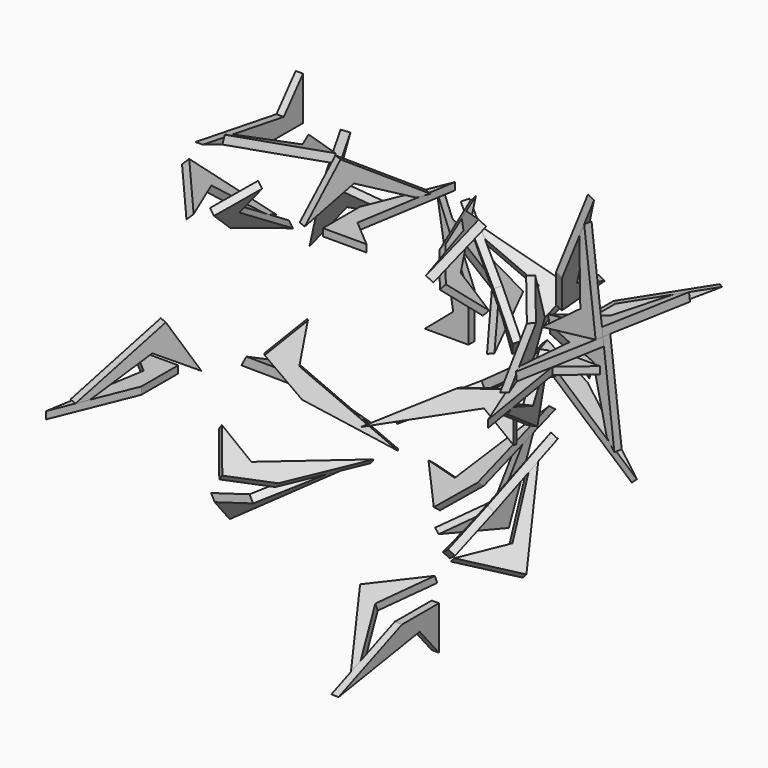
from build123d import *

# Parameters (mm, degrees)
F1_DEPTH = 27.3796711117
F3_DEPTH = 30.0228465348
F5_COUNT = 4
F5_ANGLE = 180
F6_COUNT = 4
F7_COUNT = 4
F8_COUNT = 4


with BuildPart() as f1:
    # F0 (on Top) → F1 (new body)
    with BuildSketch(Plane.XY):
        Polygon((61.9343519211, 245.5353438854), (-57.0949241519, -50.2440333366), (-57.0949241519, -222.8262573481), (105.6907325983, -222.8262573481), (0, -132.7803581953), align=None)
    extrude(amount=-F1_DEPTH)

    # F2 (on face) → F3 (join)
    with BuildSketch(Plane(origin=(-31.7359035239, 12.7713488934, 0), x_dir=(-0.3733299391, -0.9276986346, 0), z_dir=(-0.9276986346, 0.3733299391, 0))):
        Polygon((149.7131884098, 190.2702450752), (-152.2541847348, 0), (-103.5016402862, 0), (104.6432927251, 99.8184084892), (269.602849945, 0), align=None)
    extrude(amount=-F3_DEPTH)


with BuildPart() as f5_1:
    # F5: instance of F1
    add(f1.part.rotate(Axis((0, 211.3203033805, -130.5754780769), (0, 0.707471822, 0.7067415518)), 1 * F5_ANGLE / (F5_COUNT - 1)))


with BuildPart() as f5_2:
    # F5: instance of F1
    add(f1.part.rotate(Axis((0, 211.3203033805, -130.5754780769), (0, 0.707471822, 0.7067415518)), 2 * F5_ANGLE / (F5_COUNT - 1)))


with BuildPart() as f5_3:
    # F5: instance of F1
    add(f1.part.rotate(Axis((0, 211.3203033805, -130.5754780769), (0, 0.707471822, 0.7067415518)), 3 * F5_ANGLE / (F5_COUNT - 1)))


with BuildPart() as f6_1:
    # F6: instance of F5_2
    add(f5_2.part.rotate(Axis((341.0979107325, -73.7310898411, -176.628897425), (0.5, 0.6120561378, -0.6126885703)), 1 * 360 / F6_COUNT))


with BuildPart() as f6_2:
    # F6: instance of F5_2
    add(f5_2.part.rotate(Axis((341.0979107325, -73.7310898411, -176.628897425), (0.5, 0.6120561378, -0.6126885703)), 2 * 360 / F6_COUNT))


with BuildPart() as f6_3:
    # F6: instance of F5_2
    add(f5_2.part.rotate(Axis((341.0979107325, -73.7310898411, -176.628897425), (0.5, 0.6120561378, -0.6126885703)), 3 * 360 / F6_COUNT))


with BuildPart() as f7_1:
    # F7: instance of F5_1
    add(f5_1.part.rotate(Axis((-105.6907325983, 327.7575152756, -564.8425218485), (0, 0.9999994667, -0.0010327579)), 1 * 360 / F7_COUNT))


with BuildPart() as f7_2:
    # F7: instance of F5_1
    add(f5_1.part.rotate(Axis((-105.6907325983, 327.7575152756, -564.8425218485), (0, 0.9999994667, -0.0010327579)), 2 * 360 / F7_COUNT))


with BuildPart() as f7_3:
    # F7: instance of F5_1
    add(f5_1.part.rotate(Axis((-105.6907325983, 327.7575152756, -564.8425218485), (0, 0.9999994667, -0.0010327579)), 3 * 360 / F7_COUNT))


with BuildPart() as f7_4:
    # F7: instance of F6_2
    add(f6_2.part.rotate(Axis((-105.6907325983, 327.7575152756, -564.8425218485), (0, 0.9999994667, -0.0010327579)), 1 * 360 / F7_COUNT))


with BuildPart() as f7_5:
    # F7: instance of F6_2
    add(f6_2.part.rotate(Axis((-105.6907325983, 327.7575152756, -564.8425218485), (0, 0.9999994667, -0.0010327579)), 2 * 360 / F7_COUNT))


with BuildPart() as f7_6:
    # F7: instance of F6_2
    add(f6_2.part.rotate(Axis((-105.6907325983, 327.7575152756, -564.8425218485), (0, 0.9999994667, -0.0010327579)), 3 * 360 / F7_COUNT))


with BuildPart() as f7_7:
    # F7: instance of F5_2
    add(f5_2.part.rotate(Axis((-105.6907325983, 327.7575152756, -564.8425218485), (0, 0.9999994667, -0.0010327579)), 1 * 360 / F7_COUNT))


with BuildPart() as f7_8:
    # F7: instance of F5_2
    add(f5_2.part.rotate(Axis((-105.6907325983, 327.7575152756, -564.8425218485), (0, 0.9999994667, -0.0010327579)), 2 * 360 / F7_COUNT))


with BuildPart() as f7_9:
    # F7: instance of F5_2
    add(f5_2.part.rotate(Axis((-105.6907325983, 327.7575152756, -564.8425218485), (0, 0.9999994667, -0.0010327579)), 3 * 360 / F7_COUNT))


with BuildPart() as f8_1:
    # F8: instance of F6_1
    add(f6_1.part.rotate(Axis((594.5682316299, 145.1056917382, -274.0144953018), (-0.9784312299, 0.1081787627, -0.175982055)), 1 * 360 / F8_COUNT))


with BuildPart() as f8_2:
    # F8: instance of F6_1
    add(f6_1.part.rotate(Axis((594.5682316299, 145.1056917382, -274.0144953018), (-0.9784312299, 0.1081787627, -0.175982055)), 2 * 360 / F8_COUNT))


with BuildPart() as f8_3:
    # F8: instance of F6_1
    add(f6_1.part.rotate(Axis((594.5682316299, 145.1056917382, -274.0144953018), (-0.9784312299, 0.1081787627, -0.175982055)), 3 * 360 / F8_COUNT))


solid = Compound([f1.part, f5_1.part, f5_2.part, f5_3.part, f6_1.part, f6_2.part, f6_3.part, f7_1.part, f7_2.part, f7_3.part, f7_4.part, f7_5.part, f7_6.part, f7_7.part, f7_8.part, f7_9.part, f8_1.part, f8_2.part, f8_3.part])
